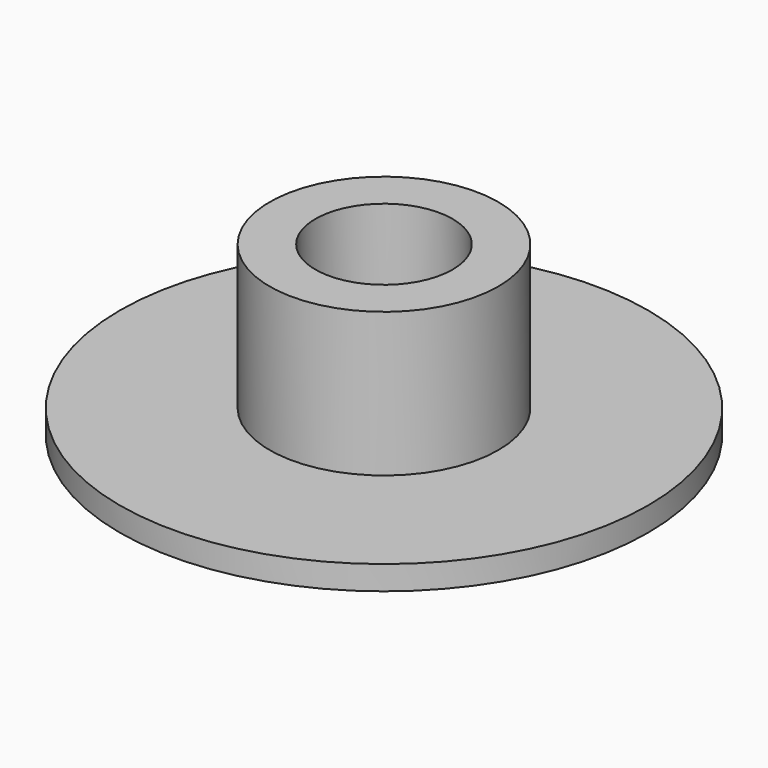
from build123d import *

# Parameters (mm, degrees)
F0_R     = 4.7625
F0_R_2   = 2.613606
F1_DEPTH = 7
F0_R_3   = 11
F2_DEPTH = 1
F3_R     = 2.8575
F4_DEPTH = 3


with BuildPart() as f1:
    # F0 (on Top) → F1 (new body)
    with BuildSketch(Plane.XY):
        Circle(F0_R)
        Circle(F0_R_2, mode=Mode.SUBTRACT)
        Circle(F0_R_2)
    extrude(amount=F1_DEPTH)

    # F0 (on Top) → F2 (join)
    with BuildSketch(Plane.XY):
        Circle(F0_R_3)
        Circle(F0_R, mode=Mode.SUBTRACT)
    extrude(amount=F2_DEPTH)

    # F3 (on face) → F4 (cut)
    with BuildSketch(Plane.XY.offset(7)):
        Circle(F3_R)
    extrude(amount=-F4_DEPTH, mode=Mode.SUBTRACT)


solid = f1.part
